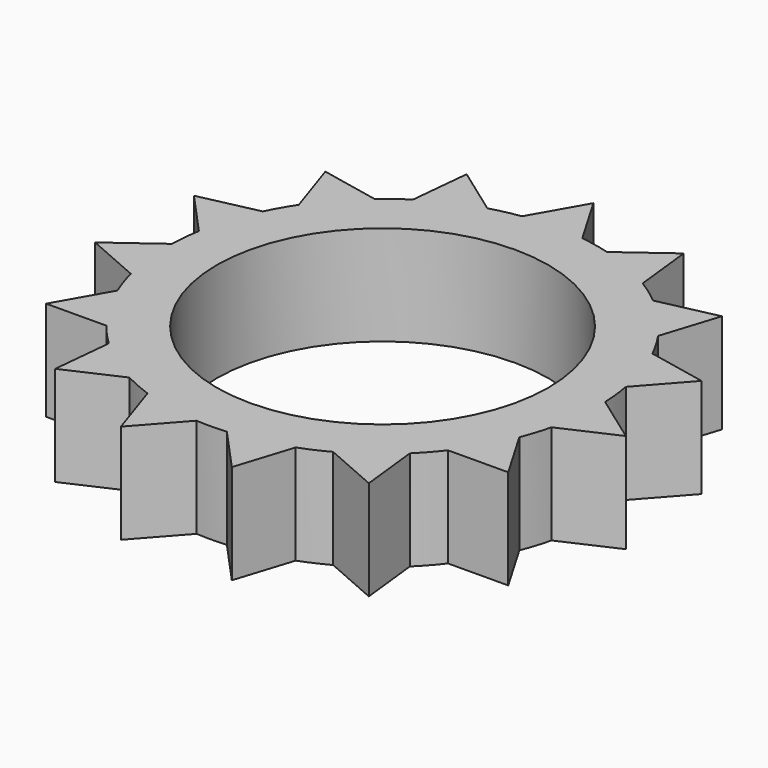
from build123d import *

# Parameters (mm, degrees)
F1_DEPTH = 5.08
F2_R     = 8.460003
F3_DEPTH = 25.4


with BuildPart() as f1:
    # F0 (on Top) → F1 (new body)
    with BuildSketch(Plane.XY):
        with BuildLine():
            ThreePointArc((10.689795, -2.593908), (10.922176, -1.306196), (11.000003, 0))
            ThreePointArc((11.000003, 0), (10.997729, 0.223701), (10.990905, 0.447309))
            ThreePointArc((10.990905, 0.447309), (10.93261, 1.215778), (10.820651, 1.978278))
            ThreePointArc((10.820651, 1.978278), (10.440932, 3.462227), (9.858754, 4.879041))
            ThreePointArc((9.858754, 4.879041), (9.492935, 5.557361), (9.080518, 6.208402))
            ThreePointArc((9.080518, 6.208402), (8.130051, 7.409612), (7.021935, 8.467143))
            ThreePointArc((7.021935, 8.467143), (6.411845, 8.938027), (5.770282, 9.365037))
            ThreePointArc((5.770282, 9.365037), (4.413411, 10.075807), (2.97096, 10.591198))
            ThreePointArc((2.97096, 10.591198), (2.222089, 10.773226), (1.462311, 10.902372))
            ThreePointArc((1.462311, 10.902372), (-0.066349, 10.999803), (-1.593721, 10.883939))
            ThreePointArc((-1.593721, 10.883939), (-2.351886, 10.745637), (-3.098507, 10.554588))
            ThreePointArc((-3.098507, 10.554588), (-4.534636, 10.021834), (-5.882834, 9.294748))
            ThreePointArc((-5.882834, 9.294748), (-6.519199, 8.860029), (-7.123565, 8.38182))
            ThreePointArc((-7.123565, 8.38182), (-8.218843, 7.310998), (-9.154751, 6.098411))
            ThreePointArc((-9.154751, 6.098411), (-9.559283, 5.442442), (-9.916893, 4.759758))
            ThreePointArc((-9.916893, 4.759758), (-10.481937, 3.336025), (-10.843728, 1.847603))
            ThreePointArc((-10.843728, 1.847603), (-10.946481, 1.083807), (-10.995501, 0.314692))
            ThreePointArc((-10.995501, 0.314692), (-10.93261, -1.215778), (-10.657726, -2.722672))
            ThreePointArc((-10.657726, -2.722672), (-10.440932, -3.462227), (-10.172887, -4.184788))
            ThreePointArc((-10.172887, -4.184788), (-9.492935, -5.557361), (-8.628907, -6.822173))
            ThreePointArc((-8.628907, -6.822173), (-8.130051, -7.409612), (-7.591288, -7.96068))
            ThreePointArc((-7.591288, -7.96068), (-6.411845, -8.938027), (-5.108071, -9.742058))
            ThreePointArc((-5.108071, -9.742058), (-4.413411, -10.075807), (-3.697086, -10.360098))
            ThreePointArc((-3.697086, -10.360098), (-2.222089, -10.773226), (-0.704003, -10.977452))
            ThreePointArc((-0.704003, -10.977452), (0.066349, -10.999803), (0.836375, -10.968161))
            ThreePointArc((0.836375, -10.968161), (2.351886, -10.745637), (3.821793, -10.314745))
            ThreePointArc((3.821793, -10.314745), (4.534636, -10.021834), (5.225219, -9.679729))
            ThreePointArc((5.225219, -9.679729), (6.519199, -8.860029), (7.686767, -7.868526))
            ThreePointArc((7.686767, -7.868526), (8.218843, -7.310998), (8.710576, -6.717584))
            ThreePointArc((8.710576, -6.717584), (9.559283, -5.442442), (10.222628, -4.061766))
            ThreePointArc((10.222628, -4.061766), (10.481937, -3.336025), (10.689795, -2.593908))
        make_face()
        with BuildLine():
            ThreePointArc((10.990905, 0.447309), (10.997729, 0.223701), (11.000003, 0))
            ThreePointArc((11.000003, 0), (10.922176, -1.306196), (10.689795, -2.593908))
            Line((10.689795, -2.593908), (13.474122, -1.334068))
            Line((13.474122, -1.334068), (10.990905, 0.447309))
        make_face()
        with BuildLine():
            ThreePointArc((9.858754, 4.879041), (10.440932, 3.462227), (10.820651, 1.978278))
            Line((10.820651, 1.978278), (12.851837, 4.261687))
            Line((12.851837, 4.261687), (9.858754, 4.879041))
        make_face()
        with BuildLine():
            Line((11.766608, -6.699151), (10.222628, -4.061766))
            ThreePointArc((10.222628, -4.061766), (9.559283, -5.442442), (8.710576, -6.717584))
            Line((8.710576, -6.717584), (11.766608, -6.699151))
        make_face()
        with BuildLine():
            ThreePointArc((7.021935, 8.467143), (8.130051, 7.409612), (9.080518, 6.208402))
            Line((9.080518, 6.208402), (10.007353, 9.120558))
            Line((10.007353, 9.120558), (7.021935, 8.467143))
        make_face()
        with BuildLine():
            Line((8.024541, -10.90589), (7.686767, -7.868526))
            ThreePointArc((7.686767, -7.868526), (6.519199, -8.860029), (5.225219, -9.679729))
            Line((5.225219, -9.679729), (8.024541, -10.90589))
        make_face()
        with BuildLine():
            ThreePointArc((2.97096, 10.591198), (4.413411, 10.075807), (5.770282, 9.365037))
            Line((5.770282, 9.365037), (5.432507, 12.402401))
            Line((5.432507, 12.402401), (2.97096, 10.591198))
        make_face()
        with BuildLine():
            Line((2.894958, -13.226901), (3.821793, -10.314745))
            ThreePointArc((3.821793, -10.314745), (2.351886, -10.745637), (0.836375, -10.968161))
            Line((0.836375, -10.968161), (2.894958, -13.226901))
        make_face()
        with BuildLine():
            ThreePointArc((-1.593721, 10.883939), (-0.066349, 10.999803), (1.462311, 10.902372))
            Line((1.462311, 10.902372), (-0.081669, 13.539757))
            Line((-0.081669, 13.539757), (-1.593721, 10.883939))
        make_face()
        with BuildLine():
            Line((-2.735189, -13.260861), (-0.704003, -10.977452))
            ThreePointArc((-0.704003, -10.977452), (-2.222089, -10.773226), (-3.697086, -10.360098))
            Line((-3.697086, -10.360098), (-2.735189, -13.260861))
        make_face()
        with BuildLine():
            ThreePointArc((-5.882834, 9.294748), (-4.534636, 10.021834), (-3.098507, 10.554588))
            Line((-3.098507, 10.554588), (-5.581724, 12.335966))
            Line((-5.581724, 12.335966), (-5.882834, 9.294748))
        make_face()
        with BuildLine():
            Line((-7.892398, -11.001898), (-5.108071, -9.742058))
            ThreePointArc((-5.108071, -9.742058), (-6.411845, -8.938027), (-7.591288, -7.96068))
            Line((-7.591288, -7.96068), (-7.892398, -11.001898))
        make_face()
        with BuildLine():
            ThreePointArc((-9.154751, 6.098411), (-8.218843, 7.310998), (-7.123565, 8.38182))
            Line((-7.123565, 8.38182), (-10.116648, 8.999174))
            Line((-10.116648, 8.999174), (-9.154751, 6.098411))
        make_face()
        with BuildLine():
            Line((-11.684939, -6.840606), (-8.628907, -6.822173))
            ThreePointArc((-8.628907, -6.822173), (-9.492935, -5.557361), (-10.172887, -4.184788))
            Line((-10.172887, -4.184788), (-11.684939, -6.840606))
        make_face()
        with BuildLine():
            ThreePointArc((-10.843728, 1.847603), (-10.481937, 3.336025), (-9.916893, 4.759758))
            Line((-9.916893, 4.759758), (-12.902311, 4.106343))
            Line((-12.902311, 4.106343), (-10.843728, 1.847603))
        make_face()
        with BuildLine():
            Line((-13.457048, -1.496512), (-10.657726, -2.722672))
            ThreePointArc((-10.657726, -2.722672), (-10.93261, -1.215778), (-10.995501, 0.314692))
            Line((-10.995501, 0.314692), (-13.457048, -1.496512))
        make_face()
    extrude(amount=F1_DEPTH)

    # F2 (on face) → F3 (cut)
    with BuildSketch(Plane.XY.offset(5.08)):
        Circle(F2_R)
    extrude(amount=-F3_DEPTH, mode=Mode.SUBTRACT)


solid = f1.part
